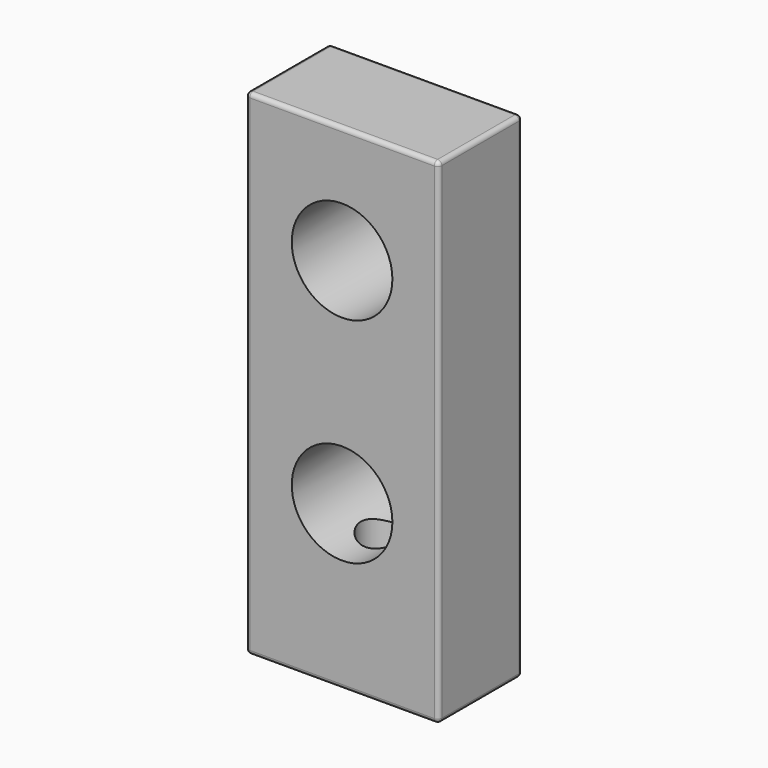
from build123d import *

# Parameters (mm, degrees)
F0_W     = 58.42
F0_H     = 149.86
F0_R     = 15.24
F1_DEPTH = 31.75
F2_R     = 6.985
F3_DEPTH = 46.99
F4_R     = 1.27


with BuildPart() as f1:
    # F0 (on Front) → F1 (new body)
    with BuildSketch(Plane.XZ):
        with Locations((-19.275324, 10.416049)):
            Rectangle(F0_W, F0_H)
        with Locations((-19.275324, -14.983951)):
            Circle(F0_R, mode=Mode.SUBTRACT)
        with Locations((-19.275324, 49.786049)):
            Circle(F0_R, mode=Mode.SUBTRACT)
    extrude(amount=F1_DEPTH)

    # F2 (on face) → F3 (cut)
    with BuildSketch(Plane(origin=(0, 0, -64.513951), x_dir=(1, 0, 0), z_dir=(0, 0, -1))):
        with Locations((-19.275324, 15.875)):
            Circle(F2_R)
    extrude(amount=-F3_DEPTH, mode=Mode.SUBTRACT)

    # F4
    f4_edges = [f1.edges().sort_by_distance(p)[0] for p in [
        (-48.485324, -31.75, 10.416049),
        (9.934676, -31.75, 10.416049),
        (-19.275324, -31.75, -64.513951),
        (-19.275324, -31.75, 85.346049),
        (-48.485324, -15.875, -64.513951),
        (9.934676, -15.875, -64.513951),
        (-48.485324, 0, 10.416049),
        (9.934676, -15.875, 85.346049),
        (9.934676, 0, 10.416049),
        (-19.275324, 0, -64.513951),
        (-19.275324, 0, 85.346049),
        (-48.485324, -15.875, 85.346049),
    ]]
    fillet(f4_edges, radius=F4_R)


solid = f1.part
